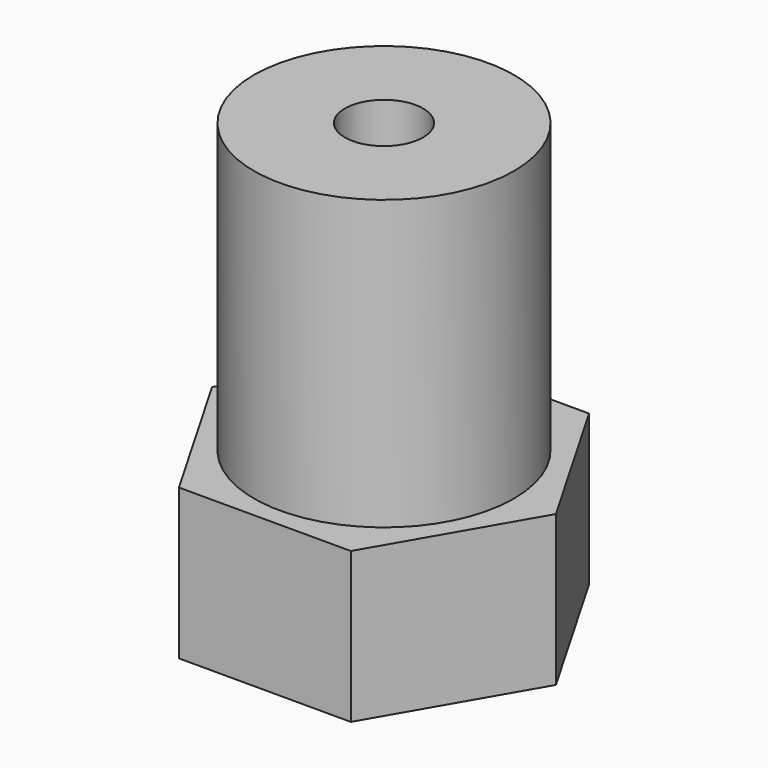
from build123d import *

# Parameters (mm, degrees)
F0_R     = 1.905
F1_DEPTH = 6.096
F2_R     = 5.2705
F2_R_2   = 1.5875
F3_DEPTH = 11.684


with BuildPart() as f1:
    # F0 (on Top) → F1 (new body)
    with BuildSketch(Plane.XY):
        Polygon((3.482865, 6.0325), (-3.482865, 6.0325), (-6.965731, 0), (-3.482865, -6.0325), (3.482865, -6.0325), (6.965731, 0), align=None)
        Circle(F0_R, mode=Mode.SUBTRACT)
    extrude(amount=F1_DEPTH)

    # F2 (on face) → F3 (join)
    with BuildSketch(Plane.XY.offset(6.096)):
        Circle(F2_R)
        Circle(F2_R_2, mode=Mode.SUBTRACT)
    extrude(amount=F3_DEPTH)


solid = f1.part
